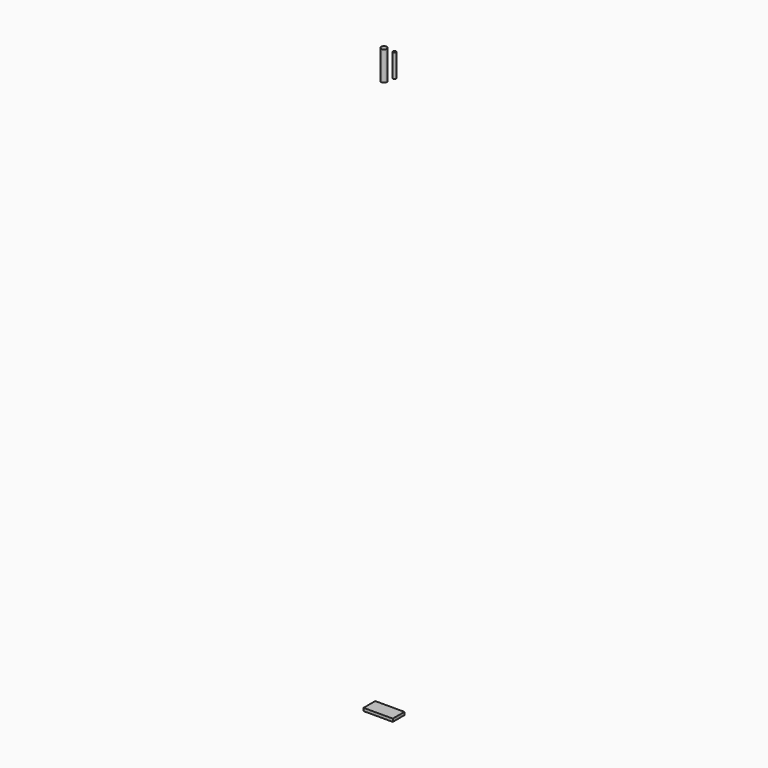
from build123d import *

# Parameters (mm, degrees)
F0_W     = 10
F0_H     = 5
F1_DEPTH = 0.5
F3_R     = 1
F4_DEPTH = 10
F3_R_2   = 0.5
F5_DEPTH = 8


with BuildPart() as f1:
    # F0 (on Top) → F1 (new body, symmetric)
    with BuildSketch(Plane.XY):
        Rectangle(F0_W, F0_H)
    extrude(amount=F1_DEPTH, both=True)


with BuildPart() as f4:
    # F3 (on offset) → F4 (new body)
    with BuildSketch(Plane.XY.offset(200)):
        Circle(F3_R)
    extrude(amount=-F4_DEPTH)


with BuildPart() as f5:
    # F3 (on offset) → F5 (new body)
    with BuildSketch(Plane.XY.offset(200)):
        with Locations((3.582082, 0)):
            Circle(F3_R_2)
    extrude(amount=-F5_DEPTH)


solid = Compound([f1.part, f4.part, f5.part])
